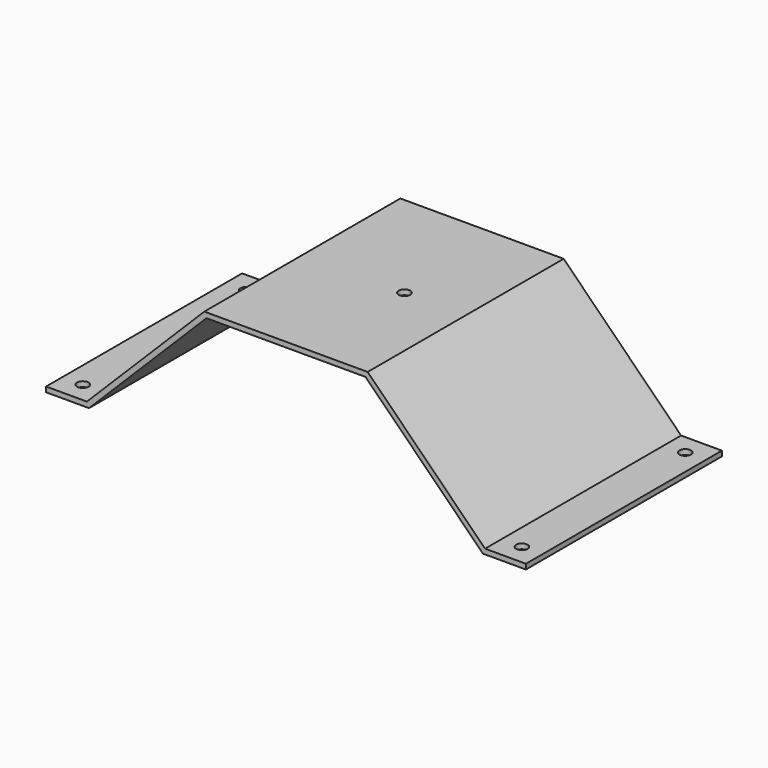
from build123d import *

# Parameters (mm, degrees)
F1_DEPTH = 152.4
F2_R     = 7.1374
F3_DEPTH = 6.351
F4_R     = 7.1374
F5_DEPTH = 152.401


with BuildPart() as f1:
    # F0 (on Front) → F1 (new body, symmetric)
    with BuildSketch(Plane.XZ):
        Polygon((101.6, 0), (-101.6, 0), (-247.65, -146.05), (-298.45, -146.05), (-298.45, -152.4), (-245.019744, -152.4), (-98.969744, -6.35), (98.969744, -6.35), (245.019744, -152.4), (298.45, -152.4), (298.45, -146.05), (247.65, -146.05), align=None)
    extrude(amount=F1_DEPTH, both=True)

    # F2 (on face) → F3 (cut, through all)
    with BuildSketch(Plane.XY.offset(-146.05)):
        with Locations((-273.05, -127)):
            Circle(F2_R)
        with Locations((-273.05, 127)):
            Circle(F2_R)
        with Locations((273.05, -127)):
            Circle(F2_R)
        with Locations((273.05, 127)):
            Circle(F2_R)
    extrude(amount=-F3_DEPTH, mode=Mode.SUBTRACT)

    # F4 (on face) → F5 (cut, through all)
    with BuildSketch(Plane.XY):
        with Locations((25.4, 0)):
            Circle(F4_R)
    extrude(amount=-F5_DEPTH, mode=Mode.SUBTRACT)


solid = f1.part
